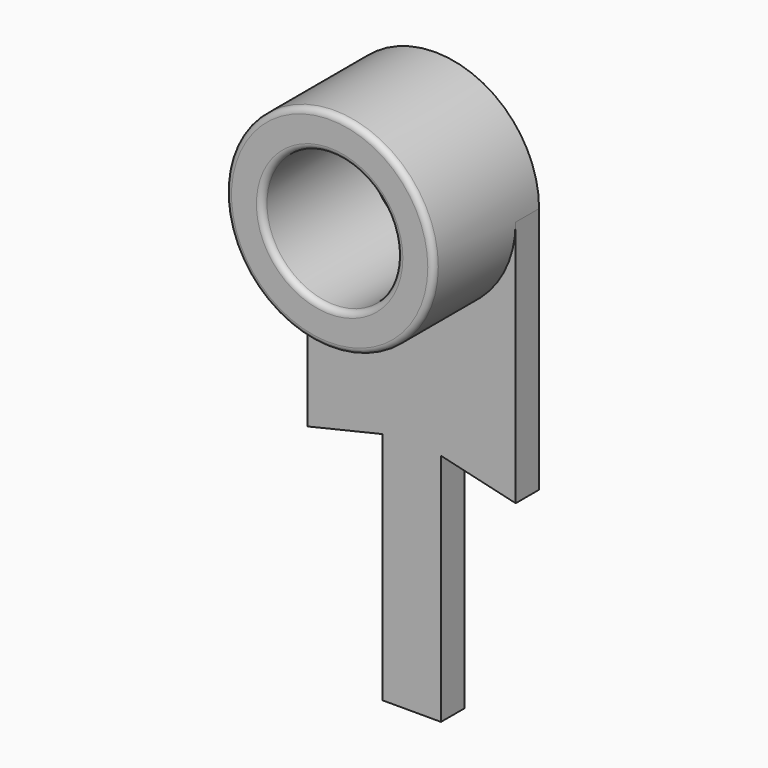
from build123d import *

# Parameters (mm, degrees)
SKETCH098_R   = 1.15
PAD056_DEPTH  = 0.5
SKETCH004_R   = 1.775
SKETCH004_R_2 = 1.15
PAD057_DEPTH  = 1.75
FILLET001_R   = 0.1


with BuildPart() as part:
    # Sketch098 → Pad056 (new body)
    with BuildSketch(Plane.XZ):
        with BuildLine():
            Line((1.775, 0), (1.775, -4.225))
            Line((1.775, -4.225), (0.5, -3.925))
            Line((0.5, -3.925), (0.5, -7.925))
            Line((0.5, -7.925), (-0.5, -7.925))
            Line((-0.5, -7.925), (-0.5, -3.925))
            Line((-0.5, -3.925), (-1.775, -4.225))
            Line((-1.775, -4.225), (-1.775, 0))
            ThreePointArc((1.775, 0), (0, 1.775), (-1.775, 0))
        make_face()
        Circle(SKETCH098_R, mode=Mode.SUBTRACT)
    extrude(amount=PAD056_DEPTH)

    # Sketch004 (on Face11 of Pad056) → Pad057 (join)
    with BuildSketch(Plane.XZ.offset(0.5)):
        Circle(SKETCH004_R)
        Circle(SKETCH004_R_2, mode=Mode.SUBTRACT)
    extrude(amount=PAD057_DEPTH)

    # Fillet001
    fillet001_edges = [part.edges().sort_by_distance(p)[0] for p in [
        (-1.775, -2.25, 0),
        (-1.15, -2.25, 0),
    ]]
    fillet(fillet001_edges, radius=FILLET001_R)


with BuildPart() as part_1:
    # Body018 placement: moved
    add(part.part.moved(Location((-5, 0.5, -8))))


solid = part_1.part
